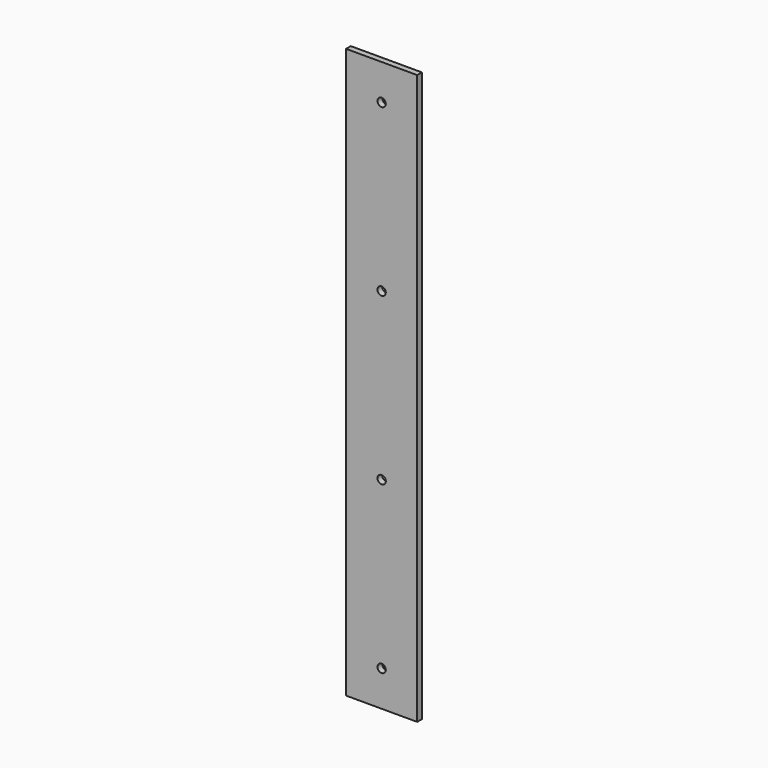
from build123d import *

# Parameters (mm, degrees)
F0_W     = 76.2
F0_H     = 609.6
F1_DEPTH = 6.35
F2_R     = 4.445
F3_DEPTH = 6.351


with BuildPart() as f1:
    # F0 (on Front) → F1 (new body)
    with BuildSketch(Plane.XZ):
        with Locations((38.1, 304.8)):
            Rectangle(F0_W, F0_H)
    extrude(amount=F1_DEPTH)

    # F2 (on face) → F3 (cut, through all)
    with BuildSketch(Plane.XZ.offset(6.35)):
        with Locations((38.1, 571.5)):
            Circle(F2_R)
        with Locations((38.1, 393.7)):
            Circle(F2_R)
        with Locations((38.1, 215.9)):
            Circle(F2_R)
        with Locations((38.1, 38.1)):
            Circle(F2_R)
    extrude(amount=-F3_DEPTH, mode=Mode.SUBTRACT)


solid = f1.part
